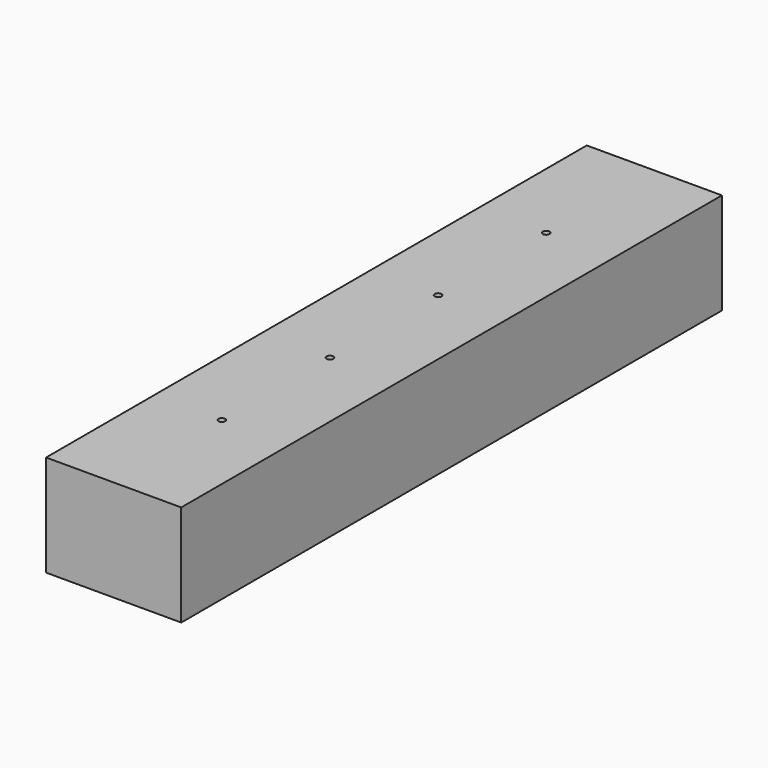
from build123d import *

# Parameters (mm, degrees)
F0_W     = 20
F0_H     = 15
F1_DEPTH = 100
F2_R     = 0.5
F3_DEPTH = 7.5


with BuildPart() as f1:
    # F0 (on Front) → F1 (new body)
    with BuildSketch(Plane.XZ):
        with Locations((10, 7.5)):
            Rectangle(F0_W, F0_H)
    extrude(amount=F1_DEPTH)

    # F2 (on face) → F3 (cut)
    with BuildSketch(Plane.XY.offset(15)):
        with Locations((10, -80)):
            Circle(F2_R)
        with Locations((10, -60)):
            Circle(F2_R)
        with Locations((10, -40)):
            Circle(F2_R)
        with Locations((10, -20)):
            Circle(F2_R)
    extrude(amount=-F3_DEPTH, mode=Mode.SUBTRACT)


solid = f1.part
